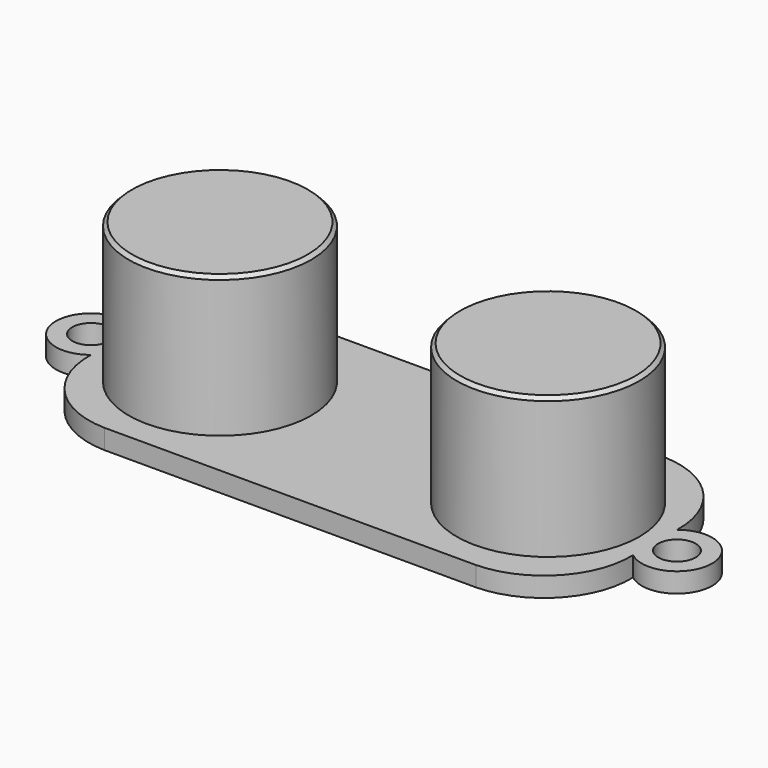
from build123d import *

# Parameters (mm, degrees)
SKETCH007_R     = 1.6
PAD002_DEPTH    = 1.68
SKETCH008_R     = 7.8
PAD003_DEPTH    = 12
CHAMFER005_SIZE = 0.3


with BuildPart() as part:
    # Sketch007 → Pad002 (new body)
    with BuildSketch(Plane.XY):
        with BuildLine():
            Line((-15.86, -10), (15.86, -10))
            ThreePointArc((15.86, -10), (21.088323, -7.686238), (23.129445, -2.345574))
            ThreePointArc((23.129445, -2.345574), (28.000116, 0), (23.129445, 2.345574))
            ThreePointArc((23.129445, 2.345574), (21.088323, 7.686238), (15.86, 10))
            Line((-15.86, 10), (15.86, 10))
            ThreePointArc((-15.86, 10), (-21.088323, 7.686238), (-23.129445, 2.345574))
            ThreePointArc((-23.129445, 2.345574), (-28.000116, 0), (-23.129445, -2.345574))
            ThreePointArc((-23.129445, -2.345574), (-21.088323, -7.686238), (-15.86, -10))
        make_face()
        with Locations((-25, 0)):
            Circle(SKETCH007_R, mode=Mode.SUBTRACT)
        with Locations((25, 0)):
            Circle(SKETCH007_R, mode=Mode.SUBTRACT)
    extrude(amount=PAD002_DEPTH)

    # Sketch008 → Pad003 (new body)
    with BuildSketch(Plane.XY.offset(1.68)):
        with Locations((-14, 0)):
            Circle(SKETCH008_R)
        with Locations((14, 0)):
            Circle(SKETCH008_R)
    extrude(amount=PAD003_DEPTH)

    # Chamfer005
    chamfer005_edges = [part.edges().sort_by_distance(p)[0] for p in [
        (6.2, 0, 13.68),
        (-21.8, 0, 13.68),
    ]]
    chamfer(chamfer005_edges, length=CHAMFER005_SIZE)


solid = part.part
